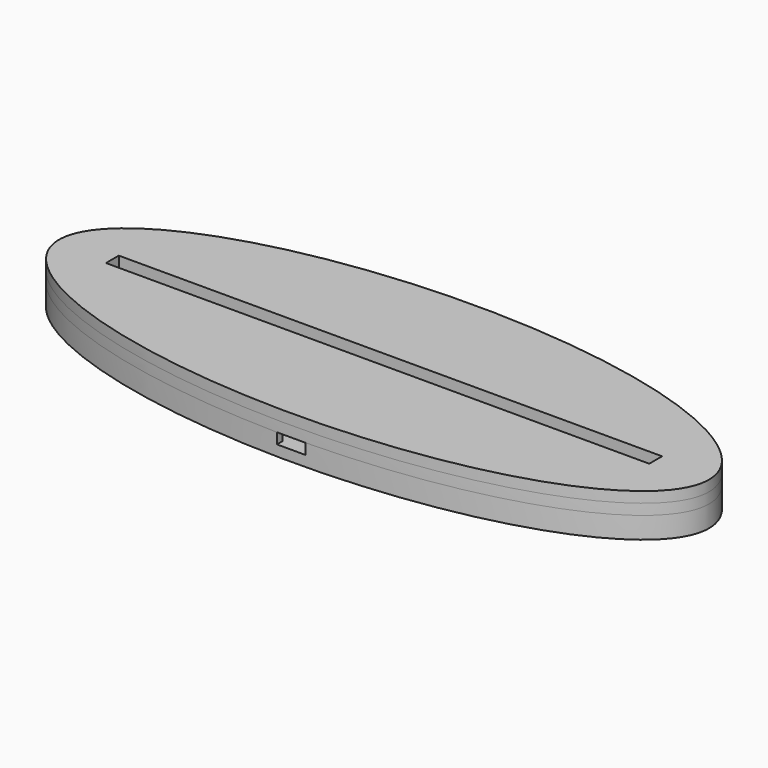
from build123d import *

# Parameters (mm, degrees)
PAD_DEPTH       = 6
POCKET_DEPTH    = 3
SKETCH002_W     = 18
SKETCH002_H     = 20
POCKET001_DEPTH = 3
SKETCH003_W     = 12
SKETCH003_H     = 5.5
SKETCH003_W_2   = 8
SKETCH003_H_2   = 2.1
POCKET002_DEPTH = 3
PAD001_DEPTH    = 3
SKETCH005_W     = 164.15
SKETCH005_H     = 4.44
POCKET003_DEPTH = 3
SKETCH006_W     = 152.15
SKETCH006_H     = 4.5
PAD002_DEPTH    = 3


with BuildPart() as part:
    # Sketch → Pad (new body)
    with BuildSketch(Plane.XY):
        with BuildLine():
            add(Edge.make_bspline(
                [(91.001374, 0), (91.001374, 56.291651), (-45.500687, 28.145826), (-182.002747, 0), (-45.500687, -28.145826), (91.001374, -56.291651), (91.001374, 0)],
                knots=[0, 0, 0, 2.094395, 2.094395, 4.18879, 4.18879, 6.283185, 6.283185, 6.283185], degree=2, weights=[1, 0.5, 1, 0.5, 1, 0.5, 1]))
        make_face()
    extrude(amount=PAD_DEPTH)

    # Sketch001 (on Face3 of Pad) → Pocket (cut)
    with BuildSketch(Plane.XY.offset(6)):
        with BuildLine():
            ThreePointArc((-82.8, 5), (-87.8, 0), (-82.8, -5))
            Line((-82.8, -5), (82.8, -5))
            ThreePointArc((82.8, -5), (87.8, 0), (82.8, 5))
            Line((-82.8, 5), (82.8, 5))
        make_face()
    extrude(amount=-POCKET_DEPTH, mode=Mode.SUBTRACT)

    # Sketch002 (on Face3 of Pocket) → Pocket001 (cut)
    with BuildSketch(Plane.XY.offset(6)):
        with Locations((0, -20.5)):
            Rectangle(SKETCH002_W, SKETCH002_H)
    extrude(amount=-POCKET001_DEPTH, mode=Mode.SUBTRACT)

    # Sketch003 (on Face3 of Pocket001) → Pocket002 (cut)
    with BuildSketch(Plane.XY.offset(6)):
        with Locations((0, -7.75)):
            Rectangle(SKETCH003_W, SKETCH003_H)
        with Locations((0, -31.55)):
            Rectangle(SKETCH003_W_2, SKETCH003_H_2)
    extrude(amount=-POCKET002_DEPTH, mode=Mode.SUBTRACT)

    # Sketch004 (on Face3 of Pocket002) → Pad001 (join)
    with BuildSketch(Plane.XY.offset(6)):
        with BuildLine():
            add(Edge.make_bspline(
                [(91.001374, 0), (91.001374, 56.291651), (-45.500687, 28.145826), (-182.002747, 0), (-45.500687, -28.145826), (91.001374, -56.291651), (91.001374, 0)],
                knots=[0, 0, 0, 2.094395, 2.094395, 4.18879, 4.18879, 6.283185, 6.283185, 6.283185], degree=2, weights=[1, 0.5, 1, 0.5, 1, 0.5, 1]))
        make_face()
    extrude(amount=PAD001_DEPTH)

    # Sketch005 (on Face8 of Pad001) → Pocket003 (cut)
    with BuildSketch(Plane.XY.offset(9)):
        Rectangle(SKETCH005_W, SKETCH005_H)
    extrude(amount=-POCKET003_DEPTH, mode=Mode.SUBTRACT)

    # Sketch006 (on Face8 of Pocket003) → Pad002 (join)
    with BuildSketch(Plane.XY.offset(9)):
        with BuildLine():
            add(Edge.make_bspline(
                [(91.001374, 0), (91.001374, 56.291651), (-45.500687, 28.145826), (-182.002747, 0), (-45.500687, -28.145826), (91.001374, -56.291651), (91.001374, 0)],
                knots=[0, 0, 0, 2.094395, 2.094395, 4.18879, 4.18879, 6.283185, 6.283185, 6.283185], degree=2, weights=[1, 0.5, 1, 0.5, 1, 0.5, 1]))
        make_face()
        Rectangle(SKETCH006_W, SKETCH006_H, mode=Mode.SUBTRACT)
    extrude(amount=PAD002_DEPTH)


solid = part.part
